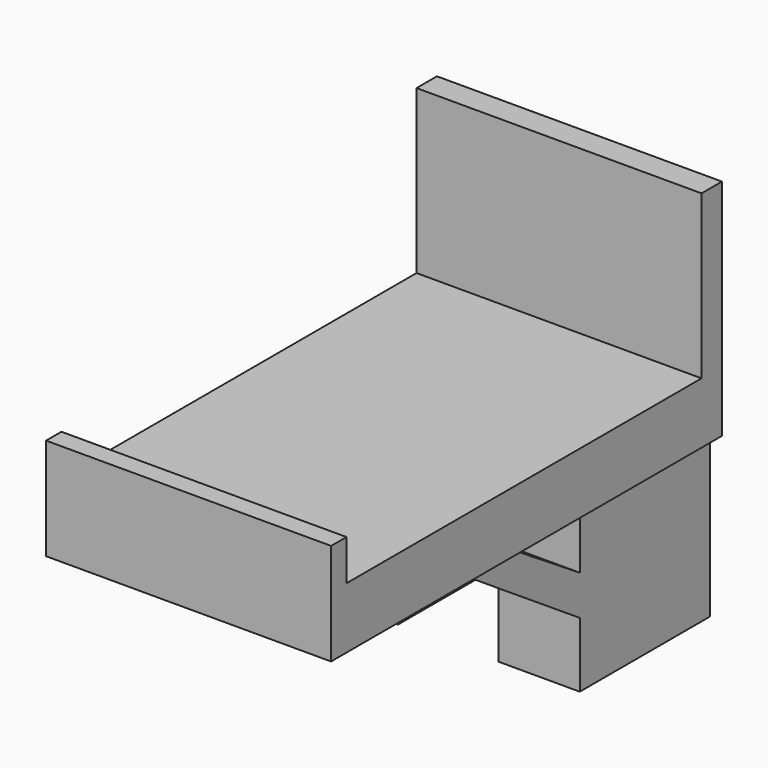
from build123d import *

# Parameters (mm, degrees)
F0_W      = 70
F0_H      = 120
F1_DEPTH  = 15
F2_W      = 20
F2_H      = 40
F3_DEPTH  = 40
F4_W      = 20
F4_H      = 40
F5_DEPTH  = 40
F7_DEPTH  = 20
F9_DEPTH  = 20
F10_W     = 70
F10_H     = 4.72569
F11_DEPTH = 10
F12_W     = 70
F12_H     = 6.264761
F13_DEPTH = 40


with BuildPart() as f1:
    # F0 (on Top) → F1 (new body)
    with BuildSketch(Plane.XY):
        with Locations((-35, 3.118879)):
            Rectangle(F0_W, F0_H)
    extrude(amount=F1_DEPTH)

    # F2 (on face) → F3 (join)
    with BuildSketch(Plane(origin=(0, 0, 0), x_dir=(1, 0, 0), z_dir=(0, 0, -1))):
        with Locations((-57.567125, -43.118879)):
            Rectangle(F2_W, F2_H)
    extrude(amount=F3_DEPTH)

    # F4 (on face) → F5 (join)
    with BuildSketch(Plane(origin=(0, 0, 0), x_dir=(1, 0, 0), z_dir=(0, 0, -1))):
        with Locations((-12.913187, -43.118879)):
            Rectangle(F4_W, F4_H)
    extrude(amount=F5_DEPTH)

    # F6 (on face) → F7 (join)
    with BuildSketch(Plane(origin=(-22.913187, 0, 0), x_dir=(0, -1, 0), z_dir=(-1, 0, 0))):
        Polygon((14.367535, 9.919991), (-23.118879, -14.26489), (-23.118879, -24.03153), (28.079158, 9.919991), align=None)
    extrude(amount=-F7_DEPTH)

    # F8 (on face) → F9 (join)
    with BuildSketch(Plane(origin=(-67.567125, 0, 0), x_dir=(0, -1, 0), z_dir=(-1, 0, 0))):
        Polygon((12.874405, 9.491349), (-23.118879, -14.700857), (-23.118879, -23.877213), (27.158411, 9.491349), (23.587411, 9.491349), align=None)
    extrude(amount=-F9_DEPTH)

    # F10 (on face) → F11 (join)
    with BuildSketch(Plane.XY.offset(15)):
        with Locations((-35, -54.518276)):
            Rectangle(F10_W, F10_H)
    extrude(amount=F11_DEPTH)

    # F12 (on face) → F13 (join)
    with BuildSketch(Plane.XY.offset(15)):
        with Locations((-35, 59.986498)):
            Rectangle(F12_W, F12_H)
    extrude(amount=F13_DEPTH)


solid = f1.part
